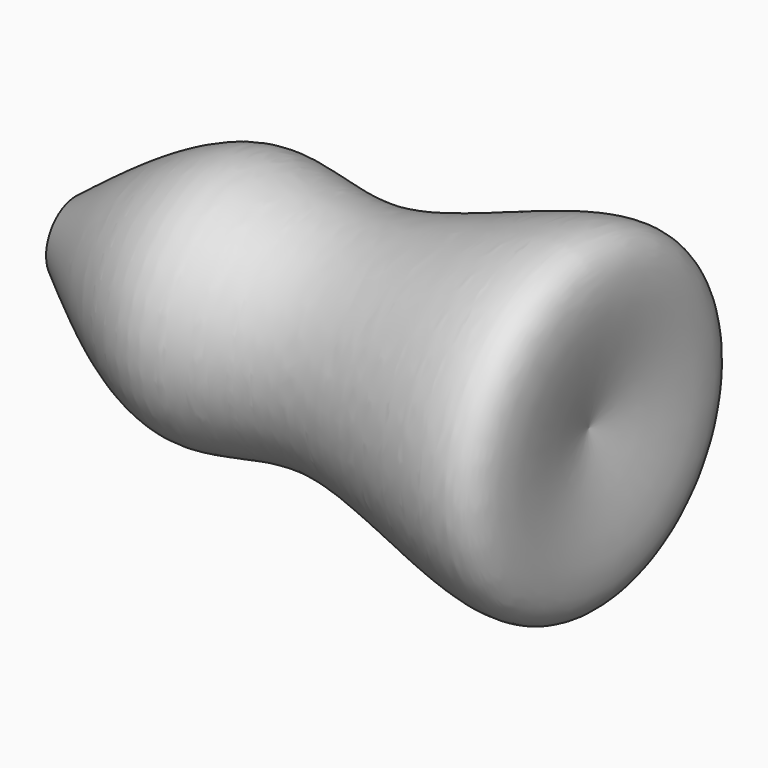
from build123d import *


with BuildPart() as f1:
    # F0 (on Front) → F1 (revolve)
    with BuildSketch(Plane.XZ):
        with BuildLine():
            add(Edge.make_bspline(
                [(-43.0269613862, 8.3463666961), (-31.5102524899, 17.2244537098), (-9.588583296, 34.1235946311), (19.6459380847, 16.8320491707), (83.4225687675, 51.473032622), (75.1518162991, 16.133943002), (71.3758319616, 0)],
                knots=[0, 0, 0, 0, 0.2487661288, 0.4735179844, 0.7596363991, 1, 1, 1, 1], degree=3))
            Line((-43.0269613862, 8.3463666961), (-43.0269613862, 0))
            Line((-43.0269613862, 0), (71.3758319616, 0))
        make_face()
    revolve(axis=Axis((14.1744352877, 0, 0), (1, 0, 0)))


solid = f1.part
